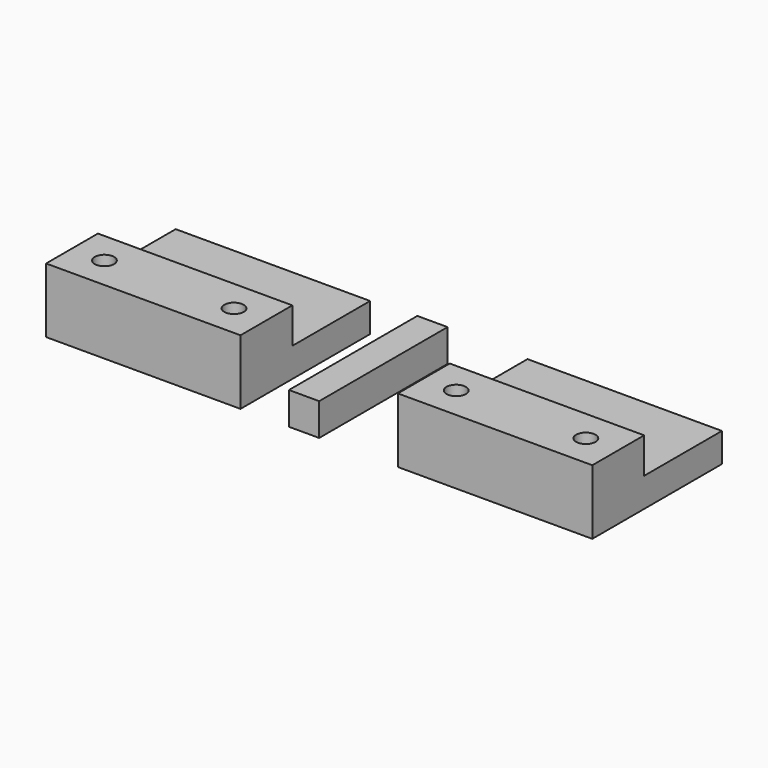
from build123d import *

# Parameters (mm, degrees)
F0_W     = 30
F0_H     = 25
F1_DEPTH = 10
F2_W     = 30
F2_H     = 15
F3_DEPTH = 5.5
F4_R     = 1.5
F5_DEPTH = 25
F6_R     = 3.5
F7_DEPTH = 6
F9_DEPTH = 5


with BuildPart() as f1:
    # F0 (on Top) → F1 (new body)
    with BuildSketch(Plane.XY):
        Rectangle(F0_W, F0_H)
    extrude(amount=F1_DEPTH)

    # F2 (on face) → F3 (cut)
    with BuildSketch(Plane.XY.offset(10)):
        with Locations((0, 5)):
            Rectangle(F2_W, F2_H)
    extrude(amount=-F3_DEPTH, mode=Mode.SUBTRACT)

    # F4 (on face) → F5 (cut)
    with BuildSketch(Plane.XY.offset(10)):
        with Locations((10, -7.5)):
            Circle(F4_R)
        with Locations((-10, -7.5)):
            Circle(F4_R)
    extrude(amount=-F5_DEPTH, mode=Mode.SUBTRACT)

    # F6 (on face) → F7 (cut)
    with BuildSketch(Plane(origin=(0, 0, 0), x_dir=(1, 0, 0), z_dir=(0, 0, -1))):
        with Locations((10, 7.5)):
            Circle(F6_R)
        with Locations((-10, 7.5)):
            Circle(F6_R)
    extrude(amount=-F7_DEPTH, mode=Mode.SUBTRACT)


with BuildPart() as f9:
    # F8 (on face) → F9 (new body)
    with BuildSketch(Plane(origin=(0, 0, 0), x_dir=(1, 0, 0), z_dir=(0, 0, -1))):
        Polygon((22.47723, 12.5), (22.47723, 0), (22.47723, -12.258405), (27.142728, -12.258405), (27.142728, 12.5), align=None)
    extrude(amount=-F9_DEPTH)


with BuildPart() as f10_1:
    # F10: instance of F1
    add(f1.part.mirror(Plane(origin=(27.142728, -0.120798, 2.5), x_dir=(0, 1, 0), z_dir=(1, 0, 0))))


solid = Compound([f1.part, f9.part, f10_1.part])
